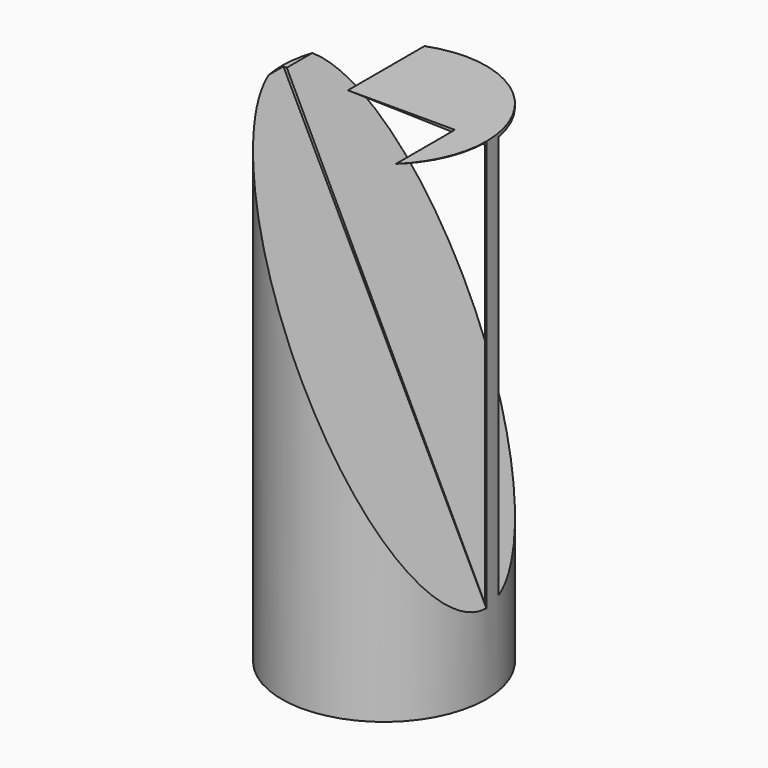
from build123d import *

# Parameters (mm, degrees)
F0_R     = 25
F1_DEPTH = 120
F3_DEPTH = 25
F5_DEPTH = 145


with BuildPart() as f1:
    # F0 (on Top) → F1 (new body)
    with BuildSketch(Plane.XY):
        Circle(F0_R)
    extrude(amount=F1_DEPTH)

    # F2 (on Front) → F3 (cut)
    with BuildSketch(Plane.XZ):
        Polygon((25.316058, 119.865231), (-24.936564, 120.713368), (25.316058, 18.935909), align=None)
    extrude(amount=F3_DEPTH, mode=Mode.SUBTRACT)

    # F4 (on Front) → F5 (cut)
    with BuildSketch(Plane.XZ):
        Polygon((24.655644, 119.145423), (-23.93619, 120.385893), (24.655644, 20.490063), align=None)
    extrude(amount=-F5_DEPTH, mode=Mode.SUBTRACT)


solid = f1.part
